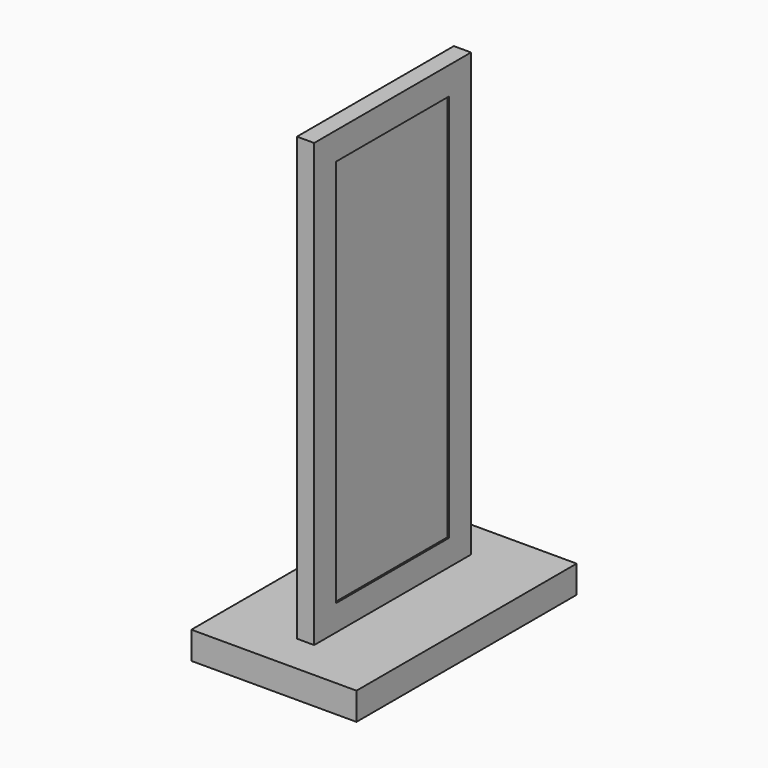
from build123d import *

# Parameters (mm, degrees)
F0_W     = 177.8
F0_H     = 406.4
F1_DEPTH = 6.35
F2_DEPTH = 76.2


with BuildPart() as f1:
    # F0 (on Right) → F1 (new body, symmetric)
    with BuildSketch(Plane.YZ):
        with Locations((0, 228.6)):
            Rectangle(F0_W, F0_H)
    extrude(amount=F1_DEPTH, both=True)


with BuildPart() as f2:
    # F0 (on Right) → F2 (new body, symmetric)
    with BuildSketch(Plane.YZ):
        Polygon((127, 25.4), (88.9, 25.4), (-88.9, 25.4), (-127, 25.4), (-127, 0), (127, 0), align=None)
    extrude(amount=F2_DEPTH, both=True)


with BuildPart() as f4:
    # F4: sweep along a path in F4_path
    with BuildLine(Plane(origin=(6.35, -88.9, 431.8), x_dir=(0, 0, -1), z_dir=(-1, 0, 0))) as f4_path:
        Line((0, 0), (406.4, 0))
        Line((406.4, 0), (406.4, -177.8))
        Line((406.4, -177.8), (0, -177.8))
        Line((0, -177.8), (0, 0))
    # F3 (on face) → F4 (sweep)
    with BuildSketch(Plane.XY.offset(25.4)):
        Polygon((6.35, -88.9), (-6.35, -88.9), (-6.35, -65.0875), (-7.9375, -65.0875), (-7.9375, -90.4875), (7.9375, -90.4875), (7.9375, -65.0875), (6.35, -65.0875), align=None)
    sweep(path=f4_path.line, transition=Transition.RIGHT)


solid = Compound([f1.part, f2.part, f4.part])
